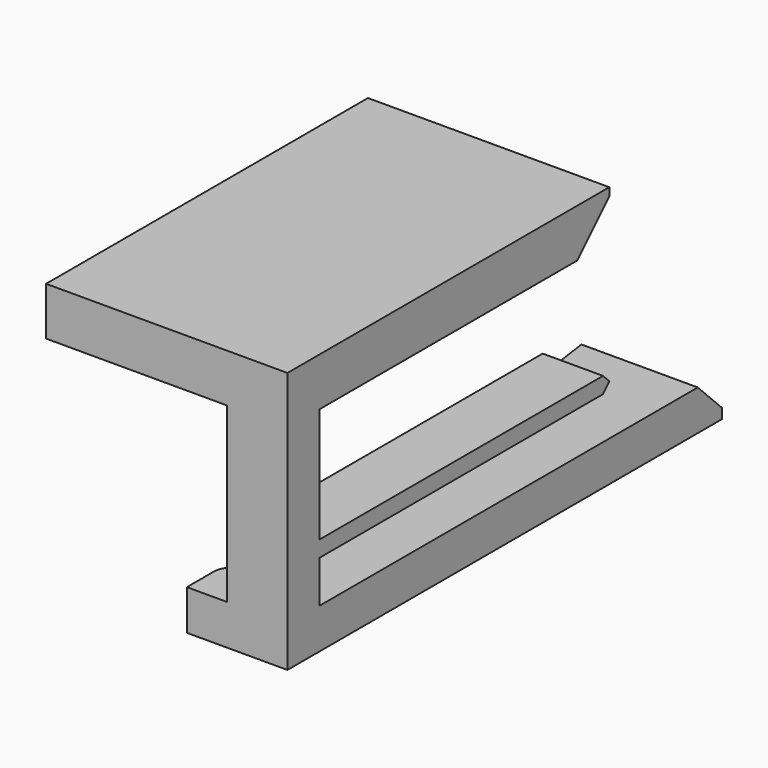
from build123d import *

# Parameters (mm, degrees)
SKETCH029_W     = 3
SKETCH029_H     = 13
PAD015_DEPTH    = 2
SKETCH030_W     = 5
SKETCH030_H     = 2
SKETCH030_W_2   = 3
SKETCH030_H_2   = 0.8
SKETCH030_W_3   = 12
SKETCH030_H_3   = 2.4
PAD016_DEPTH    = 20
PAD021_DEPTH    = 2
POCKET015_DEPTH = 3
FILLET002_R     = 1
CHAMFER_SIZE    = 2
CHAMFER001_SIZE = 1.5
CHAMFER002_SIZE = 0.39


with BuildPart() as part:
    # Sketch029 → Pad015 (new body)
    with BuildSketch(Plane.XZ):
        with Locations((0.5, 4.5)):
            Rectangle(SKETCH029_W, SKETCH029_H)
    extrude(amount=PAD015_DEPTH)

    # Sketch030 (on Face6 of Pad015) → Pad016 (join)
    with BuildSketch(Plane.XZ.offset(2)):
        with Locations((-0.5, -1)):
            Rectangle(SKETCH030_W, SKETCH030_H)
        with Locations((0.5, 2.5)):
            Rectangle(SKETCH030_W_2, SKETCH030_H_2)
        with Locations((-4, 9.8)):
            Rectangle(SKETCH030_W_3, SKETCH030_H_3)
    extrude(amount=-PAD016_DEPTH)

    # Sketch036 (on Face34 of Pad016) → Pad021 (join)
    with BuildSketch(Plane(origin=(0, 0, -2), x_dir=(1, 0, 0), z_dir=(0, 0, -1))):
        Polygon((2, -18), (2, -25), (-4, -25), (-3, -18), align=None)
    extrude(amount=-PAD021_DEPTH)

    # Sketch037 (on Face35 of Pad021) → Pocket015 (cut)
    with BuildSketch(Plane(origin=(0, 0, -2), x_dir=(1, 0, 0), z_dir=(0, 0, -1))):
        with BuildLine():
            ThreePointArc((-3, -4.99), (-0.75, -2.74), (-3, -0.49))
            Line((-3, -4.99), (-3, -0.49))
        make_face()
        with BuildLine():
            ThreePointArc((-3, -18), (-0.75, -15.75), (-3, -13.5))
            Line((-3, -18), (-3, -13.5))
        make_face()
    extrude(amount=-POCKET015_DEPTH, mode=Mode.SUBTRACT)

    # Fillet002
    fillet002_edges = [part.edges().sort_by_distance(p)[0] for p in [
        (-3, 4.99, -1),
        (-3, 13.5, -1),
        (-3, 0.49, -1),
        (-3, 18, -1),
    ]]
    fillet(fillet002_edges, radius=FILLET002_R)

    # Chamfer
    chamfer_edges = [part.edges().sort_by_distance(p)[0] for p in [
        (-4, 18, 8.6),
    ]]
    chamfer(chamfer_edges, length=CHAMFER_SIZE)

    # Chamfer001
    chamfer001_edges = [part.edges().sort_by_distance(p)[0] for p in [
        (-1, 25, 0),
    ]]
    chamfer(chamfer001_edges, length=CHAMFER001_SIZE)

    # Chamfer002
    chamfer002_edges = [part.edges().sort_by_distance(p)[0] for p in [
        (0.5, 18, 2.1),
        (0.5, 18, 2.9),
    ]]
    chamfer(chamfer002_edges, length=CHAMFER002_SIZE)


with BuildPart() as part_1:
    # Body002 placement: moved
    add(part.part.moved(Location((71, -34.5, 0))))


solid = part_1.part
